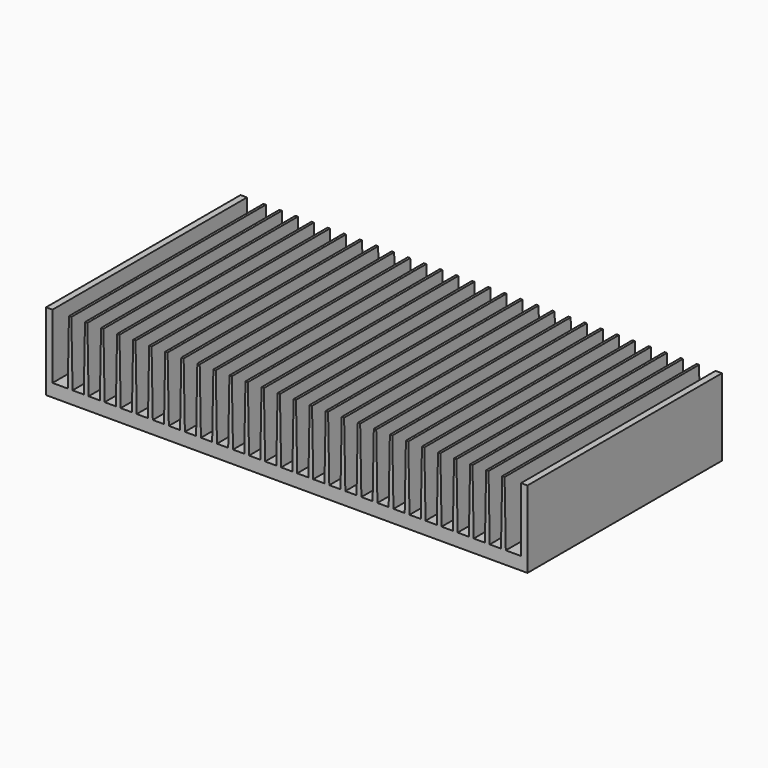
from build123d import *

# Parameters (mm, degrees)
F1_DEPTH = 151.5


with BuildPart() as f1:
    # F0 (on Front) → F1 (new body)
    with BuildSketch(Plane.XZ):
        Polygon((0.75, 48), (0, 48), (-0.75, 48), (-1.5, 8), (-8.5, 8), (-9.25, 48), (-10, 48), (-10.75, 48), (-11.5, 8), (-18.5, 8), (-19.25, 48), (-20, 48), (-20.75, 48), (-21.5, 8), (-28.5, 8), (-29.25, 48), (-30, 48), (-30.75, 48), (-31.5, 8), (-38.5, 8), (-39.25, 48), (-40, 48), (-40.75, 48), (-41.5, 8), (-48.5, 8), (-49.25, 48), (-50, 48), (-50.75, 48), (-51.5, 8), (-58.5, 8), (-59.25, 48), (-60, 48), (-60.75, 48), (-61.5, 8), (-68.5, 8), (-69.25, 48), (-70, 48), (-70.75, 48), (-71.5, 8), (-78.5, 8), (-79.25, 48), (-80, 48), (-80.75, 48), (-81.5, 8), (-88.5, 8), (-89.25, 48), (-90, 48), (-90.75, 48), (-91.5, 8), (-98.5, 8), (-99.25, 48), (-100, 48), (-100.75, 48), (-101.5, 8), (-108.5, 8), (-109.25, 48), (-110, 48), (-110.75, 48), (-111.5, 8), (-118.5, 8), (-119.25, 48), (-120, 48), (-120.75, 48), (-121.5, 8), (-128.5, 8), (-129.25, 48), (-130, 48), (-130.75, 48), (-131.5, 8), (-141, 8), (-141, 48.199648), (-145, 48.199648), (-145, 0), (155, 0), (155, 48), (151, 48), (151, 8), (141.5, 8), (140.75, 48), (140, 48), (139.25, 48), (138.5, 8), (131.5, 8), (130.75, 48), (130, 48), (129.25, 48), (128.5, 8), (121.5, 8), (120.75, 48), (120, 48), (119.25, 48), (118.5, 8), (111.5, 8), (110.75, 48), (110, 48), (109.25, 48), (108.5, 8), (101.5, 8), (100.75, 48), (100, 48), (99.25, 48), (98.5, 8), (91.5, 8), (90.75, 48), (90, 48), (89.25, 48), (88.5, 8), (81.5, 8), (80.75, 48), (80, 48), (79.25, 48), (78.5, 8), (71.5, 8), (70.75, 48), (70, 48), (69.25, 48), (68.5, 8), (61.5, 8), (60.75, 48), (60, 48), (59.25, 48), (58.5, 8), (51.5, 8), (50.75, 48), (50, 48), (49.25, 48), (48.5, 8), (41.5, 8), (40.75, 48), (40, 48), (39.25, 48), (38.5, 8), (31.5, 8), (30.75, 48), (30, 48), (29.25, 48), (28.5, 8), (21.5, 8), (20.75, 48), (20, 48), (19.25, 48), (18.5, 8), (11.5, 8), (10.75, 48), (10, 48), (9.25, 48), (8.5, 8), (1.5, 8), align=None)
    extrude(amount=F1_DEPTH)


solid = f1.part
